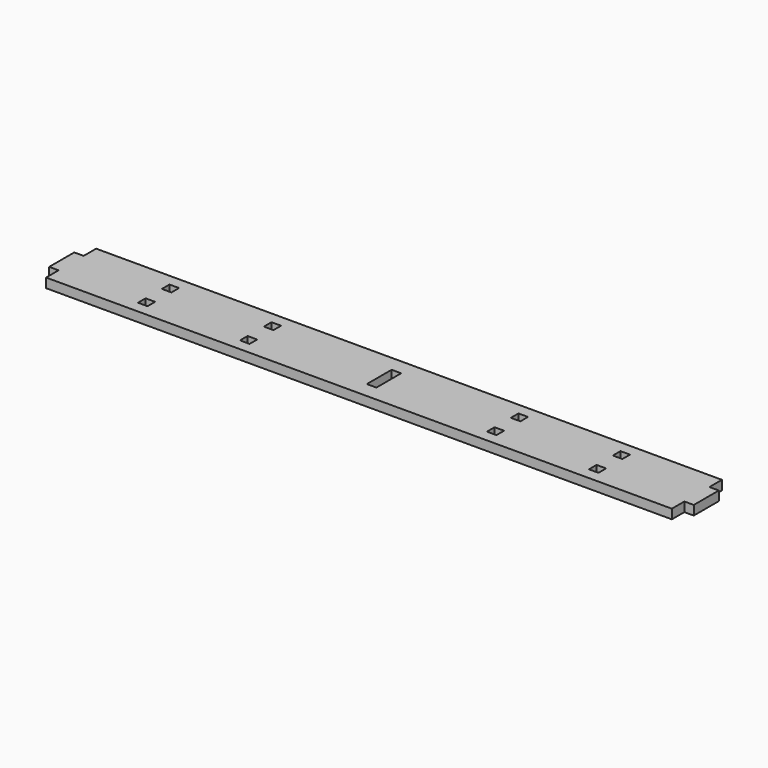
from build123d import *

# Parameters (mm, degrees)
F0_W     = 3.05
F0_H     = 3.05
F0_H_2   = 9.9
F0_W_2   = 3
F0_H_3   = 10
F1_DEPTH = 3


with BuildPart() as f1:
    # F0 (on Top) → F1 (new body)
    with BuildSketch(Plane.XY):
        Polygon((-100, -5), (-100, -10), (100, -10), (100, -5), (100, 5), (100, 10), (-100, 10), (-100, 5), align=None)
        with Locations((-72.065, -4.775)):
            Rectangle(F0_W, F0_H, mode=Mode.SUBTRACT)
        with Locations((-39.46, -4.775)):
            Rectangle(F0_W, F0_H, mode=Mode.SUBTRACT)
        with Locations((39.46, -4.775)):
            Rectangle(F0_W, F0_H, mode=Mode.SUBTRACT)
        with Locations((72.065, -4.775)):
            Rectangle(F0_W, F0_H, mode=Mode.SUBTRACT)
        with Locations((-72.065, 4.775)):
            Rectangle(F0_W, F0_H, mode=Mode.SUBTRACT)
        Rectangle(F0_W, F0_H_2, mode=Mode.SUBTRACT)
        with Locations((-39.46, 4.775)):
            Rectangle(F0_W, F0_H, mode=Mode.SUBTRACT)
        with Locations((39.46, 4.775)):
            Rectangle(F0_W, F0_H, mode=Mode.SUBTRACT)
        with Locations((72.065, 4.775)):
            Rectangle(F0_W, F0_H, mode=Mode.SUBTRACT)
        with Locations((-101.5, 0)):
            Rectangle(F0_W_2, F0_H_3)
        with Locations((101.5, 0)):
            Rectangle(F0_W_2, F0_H_3)
    extrude(amount=F1_DEPTH)


solid = f1.part
